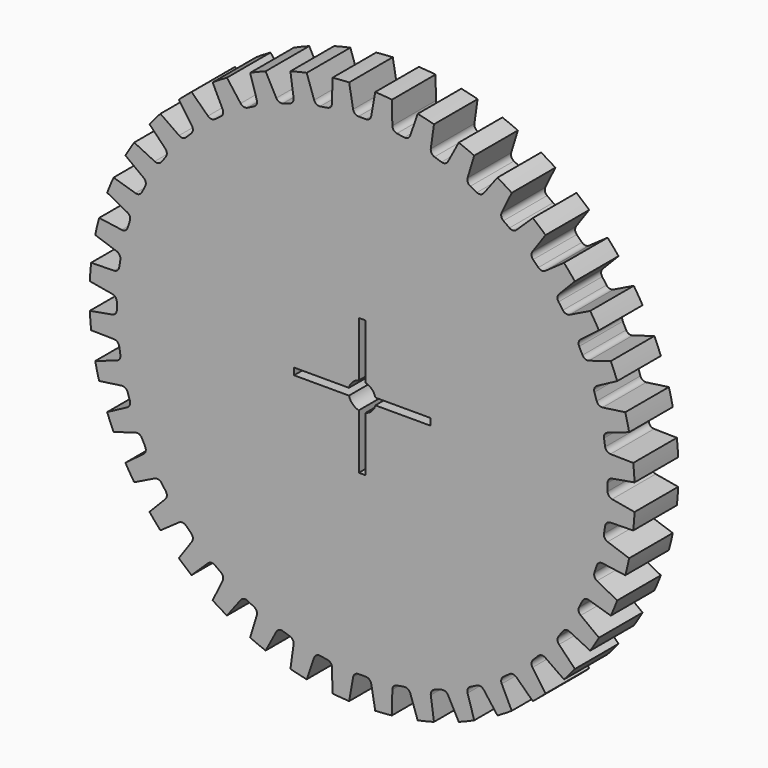
from build123d import *

# Parameters (mm, degrees)
F0_R     = 25.4
F1_DEPTH = 5.08
F3_DEPTH = 5.081
F4_COUNT = 40
F6_DEPTH = 5.081


with BuildPart() as f1:
    # F0 (on Front) → F1 (new body)
    with BuildSketch(Plane.XZ):
        Circle(F0_R)
    extrude(amount=F1_DEPTH)

    # F2 (on face) → F3 (cut, through all)
    with BuildSketch(Plane.XZ.offset(5.08)):
        with BuildLine():
            ThreePointArc((-1.2136240598, 25.3709896662), (0, 25.4), (1.2136240598, 25.3709896662))
            Line((1.2136240598, 25.3709896662), (1.2136240598, 25.9802848998))
            Line((1.2136240598, 25.9802848998), (-1.2136240598, 25.9802848998))
            Line((-1.2136240598, 25.9802848998), (-1.2136240598, 25.3709896662))
        make_face()
        with BuildLine():
            Line((-0.3446062208, 22.86), (0, 22.86))
            Line((0, 22.86), (0.3446062208, 22.86))
            ThreePointArc((0.3446062208, 22.86), (0.6711423265, 22.9788494229), (0.8448885593, 23.2797867257))
            Line((0.8448885593, 23.2797867257), (1.2136240598, 25.3709896662))
            ThreePointArc((1.2136240598, 25.3709896662), (0, 25.4), (-1.2136240598, 25.3709896662))
            Line((-1.2136240598, 25.3709896662), (-0.8448885593, 23.2797867257))
            ThreePointArc((-0.8448885593, 23.2797867257), (-0.6711423265, 22.9788494229), (-0.3446062208, 22.86))
        make_face()
    f3 = extrude(amount=-F3_DEPTH, mode=Mode.SUBTRACT)

    # F4: F3 ×40 about axis
    f4_axis = Axis((0, 0, 0), (0, 1, 0))
    for i in range(1, F4_COUNT):
        add(f3.rotate(f4_axis, i * 360 / F4_COUNT), mode=Mode.SUBTRACT)

    # F5 (on face) → F6 (cut, through all)
    with BuildSketch(Plane.XZ.offset(5.08)):
        with BuildLine():
            Line((-1.2296722124, 0.3175), (-6.35, 0.3175))
            Line((-6.35, 0.3175), (-6.35, -0.3175))
            Line((-6.35, -0.3175), (-1.2296722124, -0.3175))
            ThreePointArc((-1.2296722124, -0.3175), (-0.8980256121, -0.8980256121), (-0.3175, -1.2296722124))
            Line((-0.3175, -1.2296722124), (-0.3175, -6.35))
            Line((-0.3175, -6.35), (0.3175, -6.35))
            Line((0.3175, -6.35), (0.3175, -1.2296722124))
            ThreePointArc((0.3175, -1.2296722124), (0.8980256121, -0.8980256121), (1.2296722124, -0.3175))
            Line((1.2296722124, -0.3175), (6.35, -0.3175))
            Line((6.35, -0.3175), (6.35, 0.3175))
            Line((6.35, 0.3175), (1.2296722124, 0.3175))
            ThreePointArc((1.2296722124, 0.3175), (0.8980256121, 0.8980256121), (0.3175, 1.2296722124))
            Line((0.3175, 1.2296722124), (0.3175, 6.35))
            Line((0.3175, 6.35), (-0.3175, 6.35))
            Line((-0.3175, 6.35), (-0.3175, 1.2296722124))
            ThreePointArc((-0.3175, 1.2296722124), (-0.8980256121, 0.8980256121), (-1.2296722124, 0.3175))
        make_face()
    extrude(amount=-F6_DEPTH, mode=Mode.SUBTRACT)


solid = f1.part
